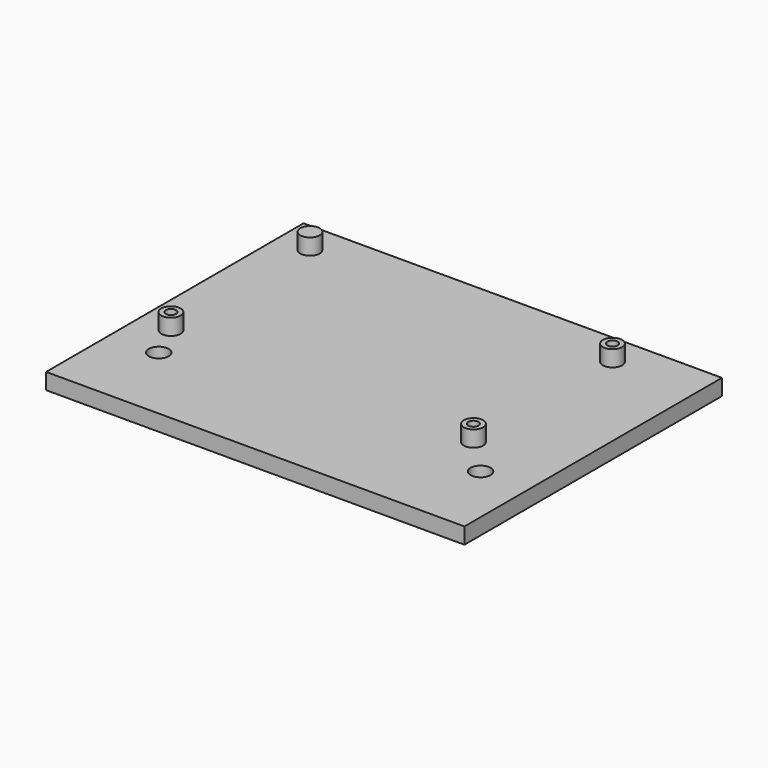
from build123d import *

# Parameters (mm, degrees)
SKETCH001_W     = 130
SKETCH001_H     = 100
PAD001_DEPTH    = 5
SKETCH002_R     = 3
PAD002_DEPTH    = 5
SKETCH003_R     = 1.6
POCKET_DEPTH    = 10
POCKET005_DEPTH = 2.5
SKETCH013_R     = 3.1
POCKET006_DEPTH = 5


with BuildPart() as part:
    # Sketch001 → Pad001 (new body)
    with BuildSketch(Plane.XY):
        with Locations((65, 50)):
            Rectangle(SKETCH001_W, SKETCH001_H)
    extrude(amount=PAD001_DEPTH)

    # Sketch002 (on Face6 of Pad001) → Pad002 (join)
    with BuildSketch(Plane.XY.offset(5)):
        with Locations((10, 90)):
            Circle(SKETCH002_R)
        with Locations((10, 36)):
            Circle(SKETCH002_R)
        with Locations((104, 90)):
            Circle(SKETCH002_R)
        with Locations((104, 36)):
            Circle(SKETCH002_R)
    extrude(amount=PAD002_DEPTH)

    # Sketch003 (on Face4 of Pad002) → Pocket (cut)
    with BuildSketch(Plane(origin=(0, 0, 0), x_dir=(1, 0, 0), z_dir=(0, 0, -1))):
        with Locations((10, -36)):
            Circle(SKETCH003_R)
        with Locations((104, -36)):
            Circle(SKETCH003_R)
        with Locations((104, -90)):
            Circle(SKETCH003_R)
    extrude(amount=-POCKET_DEPTH, mode=Mode.SUBTRACT)

    # Sketch012 (on Face4 of Pocket) → Pocket005 (cut)
    with BuildSketch(Plane(origin=(0, 0, 0), x_dir=(1, 0, 0), z_dir=(0, 0, -1))):
        Polygon((107.1, -90), (105.55, -87.315321), (102.45, -87.315321), (100.9, -90), (102.45, -92.684679), (105.55, -92.684679), align=None)
        Polygon((13.1, -36), (11.55, -33.315321), (8.45, -33.315321), (6.9, -36), (8.45, -38.684679), (11.55, -38.684679), align=None)
        Polygon((107.1, -36), (105.55, -33.315321), (102.45, -33.315321), (100.9, -36), (102.45, -38.684679), (105.55, -38.684679), align=None)
    extrude(amount=-POCKET005_DEPTH, mode=Mode.SUBTRACT)

    # Sketch013 (on Face6 of Pad001) → Pocket006 (cut)
    with BuildSketch(Plane.XY.offset(5)):
        with Locations((115, 25)):
            Circle(SKETCH013_R)
        with Locations((15, 25)):
            Circle(SKETCH013_R)
    extrude(amount=-POCKET006_DEPTH, mode=Mode.SUBTRACT)


solid = part.part
